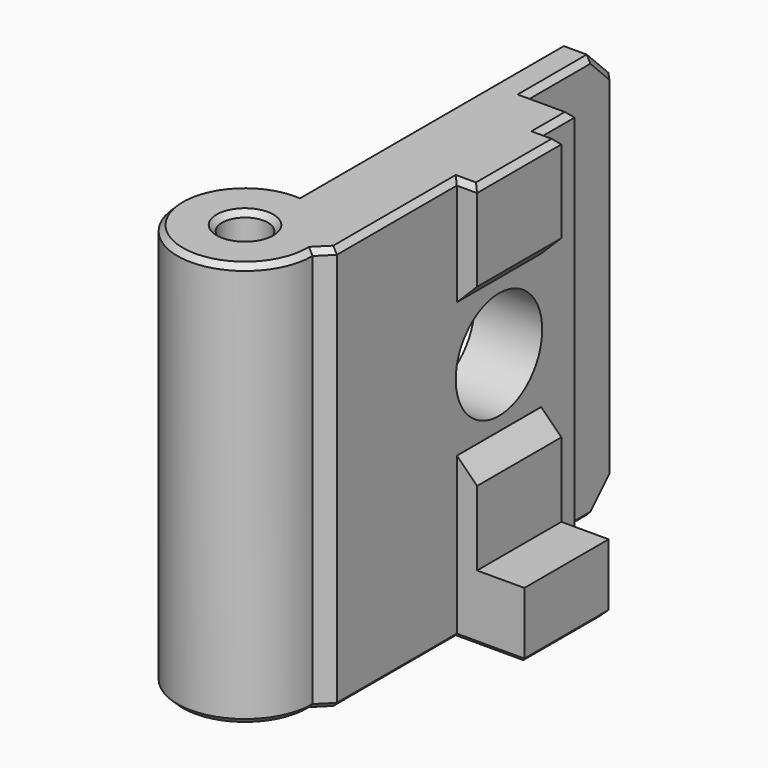
from build123d import *

# Parameters (mm, degrees)
BOX032_W              = 10
BOX032_H              = 10
BOX032_DEPTH          = 30
CYLINDER003_R         = 1.7
CYLINDER003_DEPTH     = 30
BOX022_W              = 1.5
BOX022_H              = 7.8
BOX022_DEPTH          = 8
CHAMFER006006003_SIZE = 1.49
BOX020_W              = 1.5
BOX020_H              = 7.8
BOX020_DEPTH          = 12
CHAMFER_SIZE          = 1.49
BOX021_W              = 5
BOX021_H              = 7.8
BOX021_DEPTH          = 5
BOX_W                 = 2
BOX_H                 = 2
BOX_DEPTH             = 30
CHAMFER006006002_SIZE = 1
CYLINDER002_R         = 5
CYLINDER002_DEPTH     = 30
CYLINDER001_R         = 11
CYLINDER001_DEPTH     = 10
CYLINDER_R            = 4
CYLINDER_DEPTH        = 10
BOX019_W              = 6
BOX019_H              = 30
BOX019_DEPTH          = 30
CHAMFER006006004_SIZE = 2
CHAMFER006006005_SIZE = 0.99
CHAMFER006006019_SIZE = 0.4


with BuildPart() as cube031:
    # Box032 → Box032 (new body)
    with BuildSketch(Plane(origin=(-3.5, 22, 0), x_dir=(1, 0, 0), z_dir=(0, 0, 1))):
        with Locations((5, 5)):
            Rectangle(BOX032_W, BOX032_H)
    extrude(amount=BOX032_DEPTH)


with BuildPart() as cylinder003:
    # Cylinder003 → Cylinder003 (new body)
    with BuildSketch(Plane(origin=(-6, -1, 0), x_dir=(1, 0, 0), z_dir=(0, 0, 1))):
        Circle(CYLINDER003_R)
    extrude(amount=CYLINDER003_DEPTH)


with BuildPart() as chamfer006006003:
    # Box022 → Box022 (new body)
    with BuildSketch(Plane(origin=(0, 11.1, 22), x_dir=(1, 0, 0), z_dir=(0, 0, 1))):
        with Locations((0.75, 3.9)):
            Rectangle(BOX022_W, BOX022_H)
    extrude(amount=BOX022_DEPTH)

    # Chamfer006006003
    chamfer006006003_edges = [chamfer006006003.edges().sort_by_distance(p)[0] for p in [
        (1.5, 15, 22),
    ]]
    chamfer(chamfer006006003_edges, length=CHAMFER006006003_SIZE)


with BuildPart() as chamfer_body:
    # Box020 → Box020 (new body)
    with BuildSketch(Plane(origin=(0, 11.1, 0), x_dir=(1, 0, 0), z_dir=(0, 0, 1))):
        with Locations((0.75, 3.9)):
            Rectangle(BOX020_W, BOX020_H)
    extrude(amount=BOX020_DEPTH)

    # Chamfer
    chamfer_edges = [chamfer_body.edges().sort_by_distance(p)[0] for p in [
        (1.5, 15, 12),
    ]]
    chamfer(chamfer_edges, length=CHAMFER_SIZE)


with BuildPart() as cube020:
    # Box021 → Box021 (new body)
    with BuildSketch(Plane(origin=(0, 11.1, 0), x_dir=(1, 0, 0), z_dir=(0, 0, 1))):
        with Locations((2.5, 3.9)):
            Rectangle(BOX021_W, BOX021_H)
    extrude(amount=BOX021_DEPTH)


with BuildPart() as chamfer006006002:
    # Box → Box (new body)
    with BuildSketch(Plane(origin=(-2, -1, 0), x_dir=(1, 0, 0), z_dir=(0, 0, 1))):
        with Locations((1, 1)):
            Rectangle(BOX_W, BOX_H)
    extrude(amount=BOX_DEPTH)

    # Chamfer006006002
    chamfer006006002_edges = [chamfer006006002.edges().sort_by_distance(p)[0] for p in [
        (0, -1, 15),
    ]]
    chamfer(chamfer006006002_edges, length=CHAMFER006006002_SIZE)


with BuildPart() as cylinder002:
    # Cylinder002 → Cylinder002 (new body)
    with BuildSketch(Plane(origin=(-6, -1, 0), x_dir=(1, 0, 0), z_dir=(0, 0, 1))):
        Circle(CYLINDER002_R)
    extrude(amount=CYLINDER002_DEPTH)


with BuildPart() as cylinder001:
    # Cylinder001 → Cylinder001 (new body)
    with BuildSketch(Plane(origin=(-5, 15, 17), x_dir=(0, 0, 1), z_dir=(-1, 0, 0))):
        Circle(CYLINDER001_R)
    extrude(amount=CYLINDER001_DEPTH)


with BuildPart() as cylinder:
    # Cylinder → Cylinder (new body)
    with BuildSketch(Plane(origin=(3, 15, 17), x_dir=(0, 0, 1), z_dir=(-1, 0, 0))):
        Circle(CYLINDER_R)
    extrude(amount=CYLINDER_DEPTH)


with BuildPart() as chamfer006006019:
    # Box019 → Box019 (new body)
    with BuildSketch(Plane(origin=(-6, 0, 0), x_dir=(1, 0, 0), z_dir=(0, 0, 1))):
        with Locations((3, 15)):
            Rectangle(BOX019_W, BOX019_H)
    extrude(amount=BOX019_DEPTH)

    # Chamfer006006004
    chamfer006006004_edges = [chamfer006006019.edges().sort_by_distance(p)[0] for p in [
        (-3, 30, 0),
        (-3, 30, 30),
    ]]
    chamfer(chamfer006006004_edges, length=CHAMFER006006004_SIZE)

    # Cut: cut Cylinder
    add(cylinder.part, mode=Mode.SUBTRACT)

    # Cut001: cut Cylinder001
    add(cylinder001.part, mode=Mode.SUBTRACT)

    # Chamfer006006005
    chamfer006006005_edges = [chamfer006006019.edges().sort_by_distance(p)[0] for p in [
        (-5, 15, 6),
    ]]
    chamfer(chamfer006006005_edges, length=CHAMFER006006005_SIZE)

    # Fusion: union Chamfer006006003, Chamfer body, Cube020, Chamfer006006002, Cylinder002
    add(chamfer006006003.part)
    add(chamfer_body.part)
    add(cube020.part)
    add(chamfer006006002.part)
    add(cylinder002.part)

    # Cut002: cut Cylinder003
    add(cylinder003.part, mode=Mode.SUBTRACT)

    # Cut002004005003: cut Cube031
    add(cube031.part, mode=Mode.SUBTRACT)

    # Chamfer006006019
    chamfer006006019_edges = [chamfer006006019.edges().sort_by_distance(p)[0] for p in [
        (-0.5, -0.5, 0),
        (-0.5, -0.5, 30),
        (0, 20.45, 0),
        (-1.75, 22, 0),
        (-3.5, 25, 0),
        (-6, 16, 0),
        (-9.535534, -4.535534, 0),
        (0, 5.55, 0),
        (2.5, 11.1, 0),
        (5, 15, 0),
        (2.5, 18.9, 0),
        (-7.202082, -2.202082, 0),
        (-5.228638, 0.514926, 0),
        (-4.38335, -0.474221, 0),
        (0, 5.55, 30),
        (0, 20.45, 30),
        (-6, 16, 30),
        (-3.5, 25, 30),
        (-1.75, 22, 30),
        (0.75, 18.9, 30),
        (1.5, 15, 30),
        (0.75, 11.1, 30),
        (-9.535534, -4.535534, 30),
        (-7.202082, -2.202082, 30),
        (-5.228638, 0.514926, 30),
        (-4.38335, -0.474221, 30),
        (-3.5, 29, 29),
        (-3.5, 30, 15),
        (-3.5, 29, 1),
        (-6, 29, 1),
        (-6, 29, 29),
        (-6, 30, 15),
    ]]
    chamfer(chamfer006006019_edges, length=CHAMFER006006019_SIZE)


with BuildPart() as chamfer006006019_1:
    # Chamfer006006019 placement: moved
    add(chamfer006006019.part.moved(Location((0, 0, 5))))


solid = chamfer006006019_1.part
